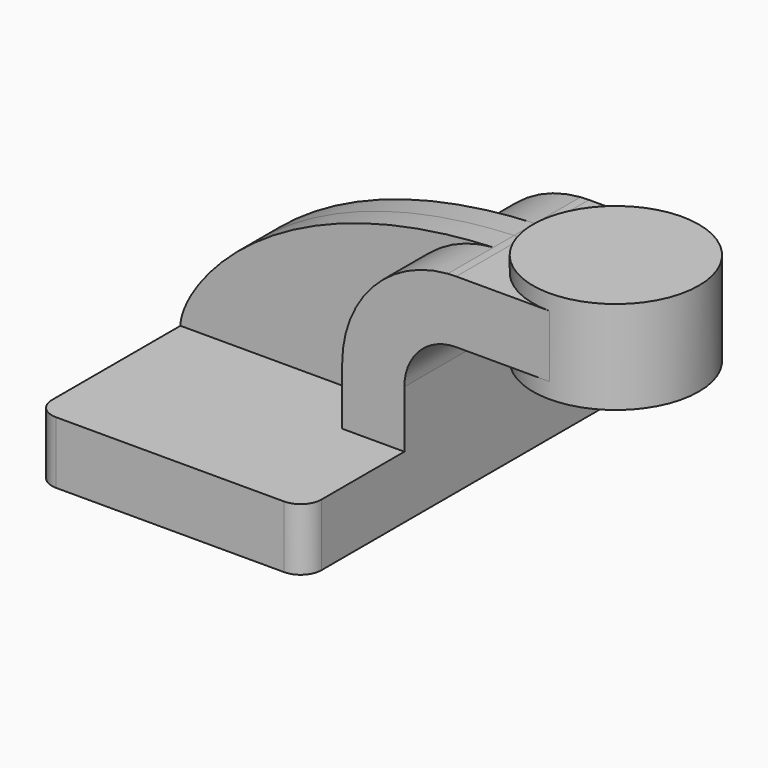
from build123d import *

# Parameters (mm, degrees)
F1_DEPTH = 63.5
F0_W     = 25.4
F0_H     = 19.05
F2_DEPTH = 25.4
F3_DEPTH = 7.9375
F5_R     = 6.35


with BuildPart() as f1:
    # F0 (on Front) → F1 (new body, symmetric)
    with BuildSketch(Plane.XZ):
        Polygon((41.275, -9.525), (41.275, 9.525), (22.225, 9.525), (-41.275, 9.525), (-41.275, -9.525), align=None)
    extrude(amount=F1_DEPTH, both=True)

    # F0 (on Front) → F2 (join, symmetric)
    with BuildSketch(Plane.XZ):
        with BuildLine():
            Line((57.15, 42.8752), (60.325, 42.8752))
            Line((60.325, 42.8752), (60.325, 61.9252))
            Line((60.325, 61.9252), (57.15, 61.9252))
            add(Edge.make_bspline(
                [(54.5705152292, 61.8298121615), (55.4238048441, 61.8669366767), (56.28362245, 61.8987709325), (57.15, 61.9252)],
                knots=[110.1540208598, 110.1540208598, 110.1540208598, 110.1540208598, 111.5045361635, 111.5045361635, 111.5045361635, 111.5045361635], degree=3))
            ThreePointArc((54.5705152292, 61.8298121615), (31.5585548413, 50.7664272919), (22.225, 27.0002))
            Line((22.225, 27.0002), (22.225, 9.525))
            Line((22.225, 9.525), (41.275, 9.525))
            Line((41.275, 9.525), (41.275, 27.0002))
            ThreePointArc((41.275, 27.0002), (45.9246798487, 38.2255201513), (57.15, 42.8752))
        make_face()
        with Locations((73.025, 52.4002)):
            Rectangle(F0_W, F0_H)
    extrude(amount=F2_DEPTH, both=True)

    # F0 (on Front) → F3 (join, symmetric)
    with BuildSketch(Plane.XZ):
        with BuildLine():
            ThreePointArc((22.225, 27.0002), (31.5585548413, 50.7664272919), (54.5705152292, 61.8298121615))
            add(Edge.make_bspline(
                [(-41.275, 9.525), (-41.1965187211, 20.5789194147), (-15.0275720914, 58.8017719663), (54.5705152292, 61.8298121615)],
                knots=[0, 0, 0, 0, 110.1540208598, 110.1540208598, 110.1540208598, 110.1540208598], degree=3))
            Line((-41.275, 9.525), (22.225, 9.525))
            Line((22.225, 9.525), (22.225, 27.0002))
        make_face()
    extrude(amount=F3_DEPTH, both=True)

    # F0 (on Front) → F4 (revolve)
    with BuildSketch(Plane.XZ):
        Polygon((85.725, 38.1), (111.125, 38.1), (111.125, 66.675), (85.725, 66.675), (85.725, 61.9252), (85.725, 42.8752), align=None)
    revolve(axis=Axis((85.725, 0, 52.3875), (0, 0, 1)))

    # F5
    f5_edges = [f1.edges().sort_by_distance(p)[0] for p in [
        (41.275, -63.5, 0),
        (-41.275, -63.5, 0),
        (41.275, 63.5, 0),
        (-41.275, 63.5, 0),
    ]]
    fillet(f5_edges, radius=F5_R)


solid = f1.part
